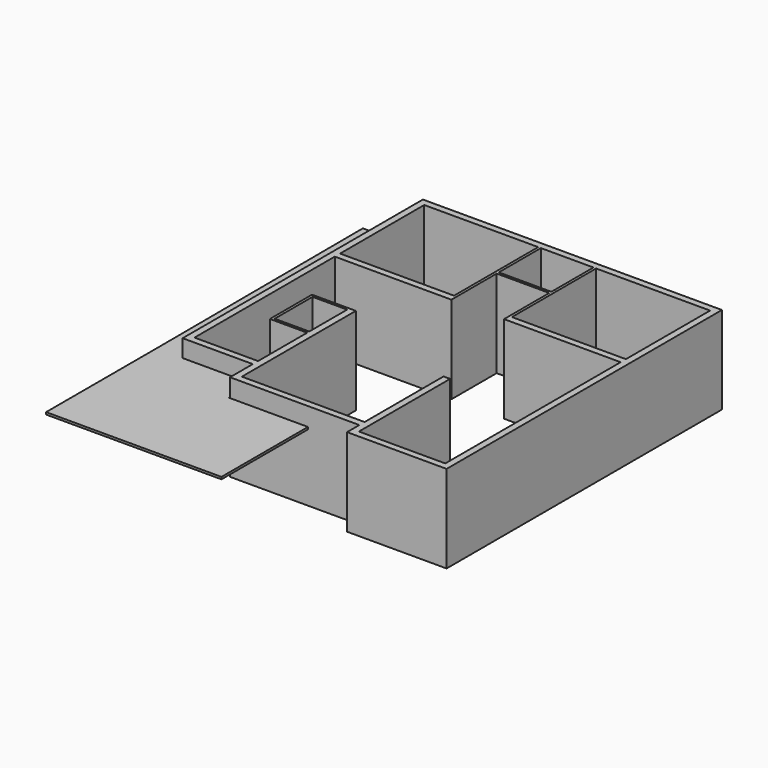
from build123d import *

# Parameters (mm, degrees)
F0_W     = 100.33
F0_H     = 137.16
F0_W_2   = 330.2
F0_H_2   = 304.8
F0_W_3   = 152.4
F0_H_3   = 152.4
F1_DEPTH = 254
F4_DEPTH = 6.35
F6_DEPTH = 6.35


with BuildPart() as f1:
    # F0 (on Top) → F1 (new body)
    with BuildSketch(Plane.XY):
        Polygon((460.5475887705, 383.838060368), (-405.5924112295, 383.838060368), (-405.5924112295, 40.938060368), (-405.5924112295, -486.111939632), (-202.3924112295, -486.111939632), (-202.3924112295, -568.661939632), (26.2075887705, -568.661939632), (172.2575887705, -568.661939632), (172.2575887705, -613.111939632), (460.5475887705, -613.111939632), (460.5475887705, -282.911939632), align=None)
        with Locations((-252.5574112295, -213.061939632)):
            Rectangle(F0_W, F0_H, mode=Mode.SUBTRACT)
        with Locations((-221.4424112295, 212.388060368)):
            Rectangle(F0_W_2, F0_H_2, mode=Mode.SUBTRACT)
        Polygon((-386.5424112295, -467.061939632), (-386.5424112295, 40.938060368), (-48.7224112295, 40.938060368), (-48.7224112295, 204.768060368), (103.6775887705, 204.768060368), (103.6775887705, 40.938060368), (281.4775887705, 40.938060368), (289.0975887705, 40.938060368), (441.4975887705, 40.938060368), (441.4975887705, -86.061939632), (441.4975887705, -93.681939632), (441.4975887705, -263.861939632), (441.4975887705, -594.061939632), (191.3075887705, -594.061939632), (191.3075887705, -263.861939632), (172.2575887705, -263.861939632), (172.2575887705, -549.611939632), (-183.3424112295, -549.611939632), (-183.3424112295, -486.111939632), (-183.3424112295, -136.861939632), (-310.3424112295, -136.861939632), (-310.3424112295, -289.261939632), (-202.3924112295, -289.261939632), (-202.3924112295, -467.061939632), align=None, mode=Mode.SUBTRACT)
        with Locations((27.4775887705, 288.588060368)):
            Rectangle(F0_W_3, F0_H_3, mode=Mode.SUBTRACT)
        with Locations((276.3975887705, 212.388060368)):
            Rectangle(F0_W_2, F0_H_2, mode=Mode.SUBTRACT)
    extrude(amount=F1_DEPTH)

    # F3 (on offset) → F4 (join)
    with BuildSketch(Plane.XY.offset(203.2)):
        Polygon((-202.2046655178, -572.2870230675), (-202.2046655178, -484.5494627953), (-481.6046655178, -484.5494627953), (-481.6046655178, -885.6354951859), (26.3953344822, -885.6354951859), (26.3953344822, -572.2870230675), align=None)
    extrude(amount=-F4_DEPTH)

    # F5 (on face) → F6 (join)
    with BuildSketch(Plane.XY.offset(203.2)):
        Polygon((-484.4706356525, 264.8289501667), (-481.6046655178, -484.5494627953), (-405.5924112295, -484.5494627953), (-405.5924112295, -486.111939632), (-401.7352461815, 264.8289501667), align=None)
    extrude(amount=-F6_DEPTH)


solid = f1.part
